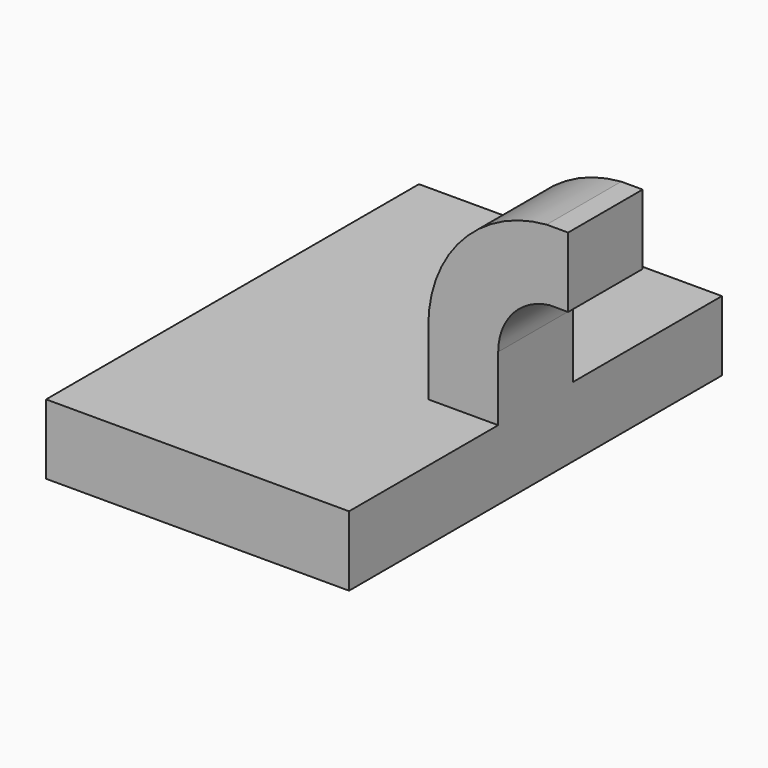
from build123d import *

# Parameters (mm, degrees)
F1_DEPTH = 12.7
F2_DEPTH = 63.5


with BuildPart() as f1:
    # F0 (on Front) → F1 (new body, symmetric)
    with BuildSketch(Plane.XZ):
        with BuildLine():
            Line((22.225, 27.103306), (22.225, 9.525))
            Line((22.225, 9.525), (41.275, 9.525))
            Line((41.275, 9.525), (41.275, 27.103306))
            ThreePointArc((41.275, 27.103306), (45.303233, 37.670696), (55.343628, 42.8752))
            Line((55.343628, 42.8752), (60.325, 42.8752))
            Line((60.325, 42.8752), (60.325, 61.9252))
            Line((60.325, 61.9252), (54.468338, 61.9252))
            ThreePointArc((54.468338, 61.9252), (31.523718, 50.831965), (22.225, 27.103306))
        make_face()
    extrude(amount=F1_DEPTH, both=True)

    # F0 (on Front) → F2 (join, symmetric)
    with BuildSketch(Plane.XZ):
        Polygon((22.225, 9.525), (-41.275, 9.525), (-41.275, -9.525), (41.275, -9.525), (41.275, 9.525), align=None)
    extrude(amount=F2_DEPTH, both=True)


solid = f1.part
